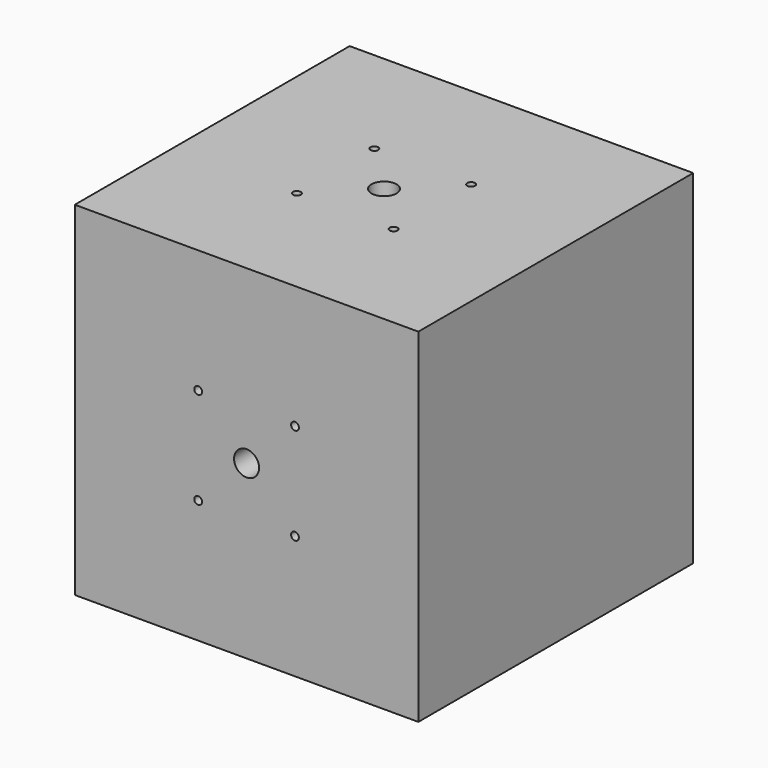
from build123d import *

# Parameters (mm, degrees)
F1_W          = 110
F1_H          = 110
F1_R          = 1.25
F1_R_2        = 4
F2_DEPTH      = 55
F3_R          = 1.25
F3_R_2        = 4
F4_DEPTH      = 55.001
F4_DEPTH_BACK = 55.001
F5_R          = 1.25
F5_R_2        = 4
F6_DEPTH      = 42.3


with BuildPart() as f2:
    # F1 (on Top) → F2 (new body, symmetric)
    with BuildSketch(Plane.XY):
        Rectangle(F1_W, F1_H)
        with Locations((-15.5, -15.5)):
            Circle(F1_R, mode=Mode.SUBTRACT)
        with Locations((15.5, -15.5)):
            Circle(F1_R, mode=Mode.SUBTRACT)
        with Locations((-15.5, 15.5)):
            Circle(F1_R, mode=Mode.SUBTRACT)
        Circle(F1_R_2, mode=Mode.SUBTRACT)
        with Locations((15.5, 15.5)):
            Circle(F1_R, mode=Mode.SUBTRACT)
    extrude(amount=F2_DEPTH, both=True)

    # F3 (on Front) → F4 (cut, two sides)
    with BuildSketch(Plane.XZ) as f4_sk:
        with Locations((15.5, 15.5)):
            Circle(F3_R)
        Circle(F3_R_2)
        with Locations((-15.5, 15.5)):
            Circle(F3_R)
        with Locations((-15.5, -15.5)):
            Circle(F3_R)
        with Locations((15.5, -15.5)):
            Circle(F3_R)
    extrude(amount=-F4_DEPTH, mode=Mode.SUBTRACT)
    extrude(f4_sk.sketch, amount=F4_DEPTH_BACK, mode=Mode.SUBTRACT)

    # F5 (on Right) → F6 (cut, symmetric)
    with BuildSketch(Plane.YZ):
        with Locations((-15.5, 15.5)):
            Circle(F5_R)
        Circle(F5_R_2)
        with Locations((15.5, 15.5)):
            Circle(F5_R)
        with Locations((15.5, -15.5)):
            Circle(F5_R)
        with Locations((-15.5, -15.5)):
            Circle(F5_R)
    extrude(amount=F6_DEPTH, both=True, mode=Mode.SUBTRACT)


solid = f2.part
